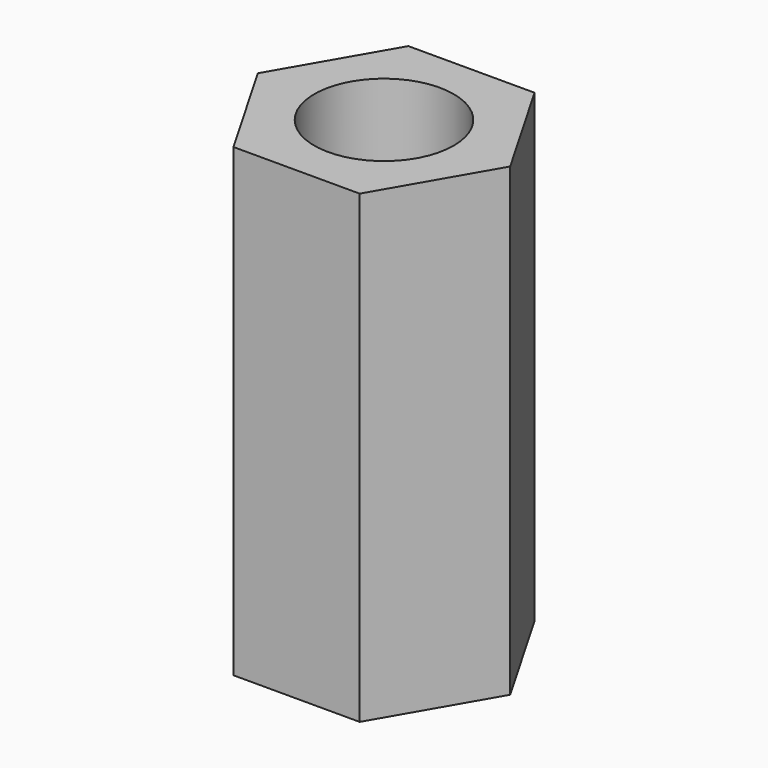
from build123d import *

# Parameters (mm, degrees)
SKETCH_R  = 1.5
PAD_DEPTH = 10


with BuildPart() as part:
    # Sketch → Pad (new body)
    with BuildSketch(Plane.XY):
        Polygon((1.356773, -2.35), (2.713546, 0), (1.356773, 2.35), (-1.356773, 2.35), (-2.713546, 0), (-1.356773, -2.35), align=None)
        Circle(SKETCH_R, mode=Mode.SUBTRACT)
    extrude(amount=PAD_DEPTH)


solid = part.part
